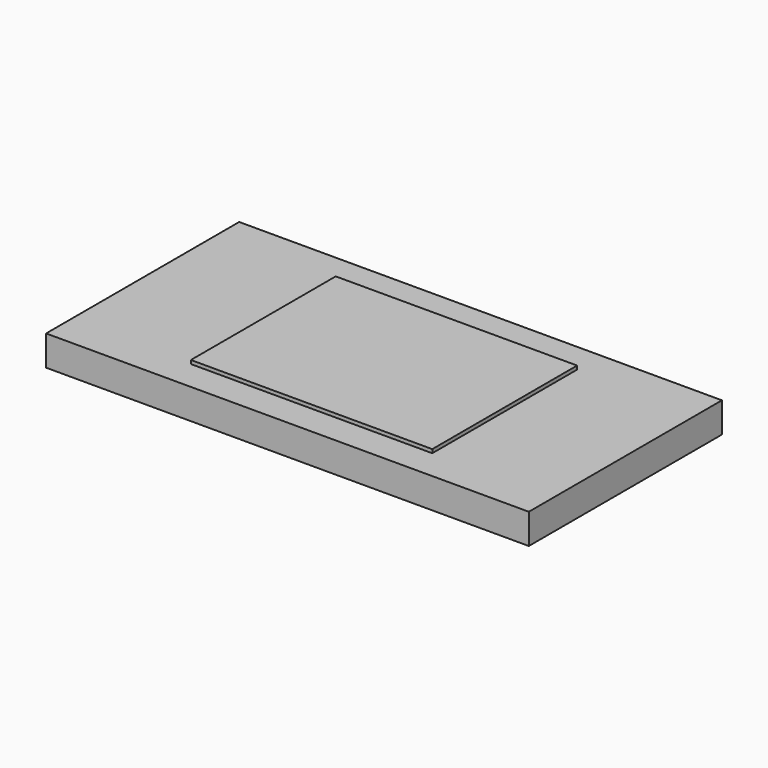
from build123d import *

# Parameters (mm, degrees)
F0_W     = 101.6
F0_H     = 50.8
F1_DEPTH = 6.35
F2_W     = 50.8
F2_H     = 38.1
F3_DEPTH = 0.762


with BuildPart() as f1:
    # F0 (on Top) → F1 (new body)
    with BuildSketch(Plane.XY):
        Rectangle(F0_W, F0_H)
        Rectangle(F0_W, F0_H)
    extrude(amount=F1_DEPTH)

    # F2 (on face) → F3 (join)
    with BuildSketch(Plane.XY.offset(6.35)):
        Rectangle(F2_W, F2_H)
    extrude(amount=F3_DEPTH)


solid = f1.part
